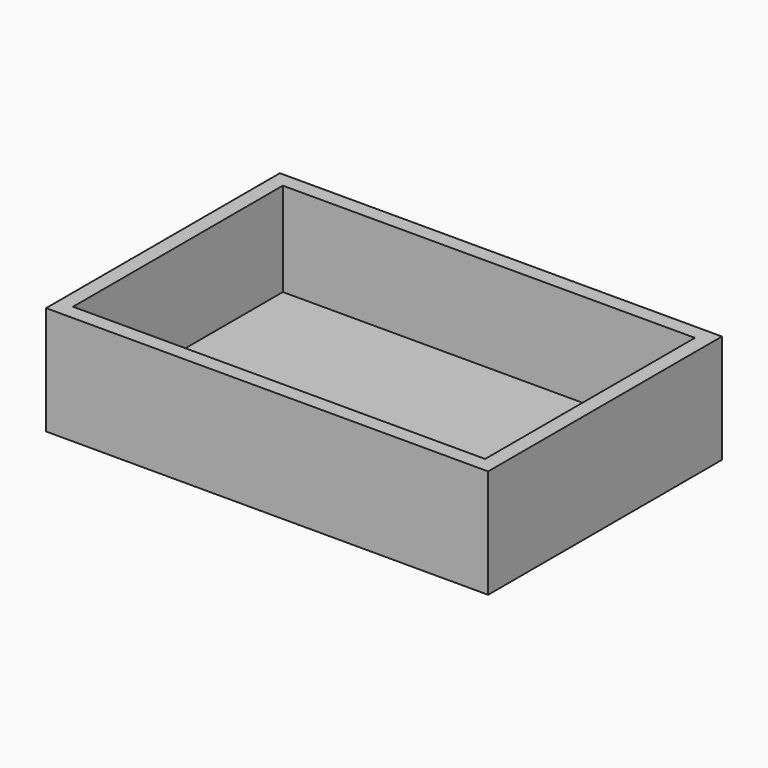
from build123d import *

# Parameters (mm, degrees)
F0_W     = 118
F0_H     = 78
F0_W_2   = 110
F0_H_2   = 70
F1_DEPTH = 25
F2_DEPTH = 4


with BuildPart() as f1:
    # F0 (on Top) → F1 (new body)
    with BuildSketch(Plane.XY):
        with Locations((59, 39)):
            Rectangle(F0_W, F0_H)
        with Locations((59, 39)):
            Rectangle(F0_W_2, F0_H_2, mode=Mode.SUBTRACT)
    extrude(amount=F1_DEPTH)

    # F0 (on Top) → F2 (join)
    with BuildSketch(Plane.XY):
        with Locations((59, 39)):
            Rectangle(F0_W, F0_H)
        with Locations((59, 39)):
            Rectangle(F0_W_2, F0_H_2, mode=Mode.SUBTRACT)
        with Locations((59, 39)):
            Rectangle(F0_W_2, F0_H_2)
    extrude(amount=-F2_DEPTH)


solid = f1.part
